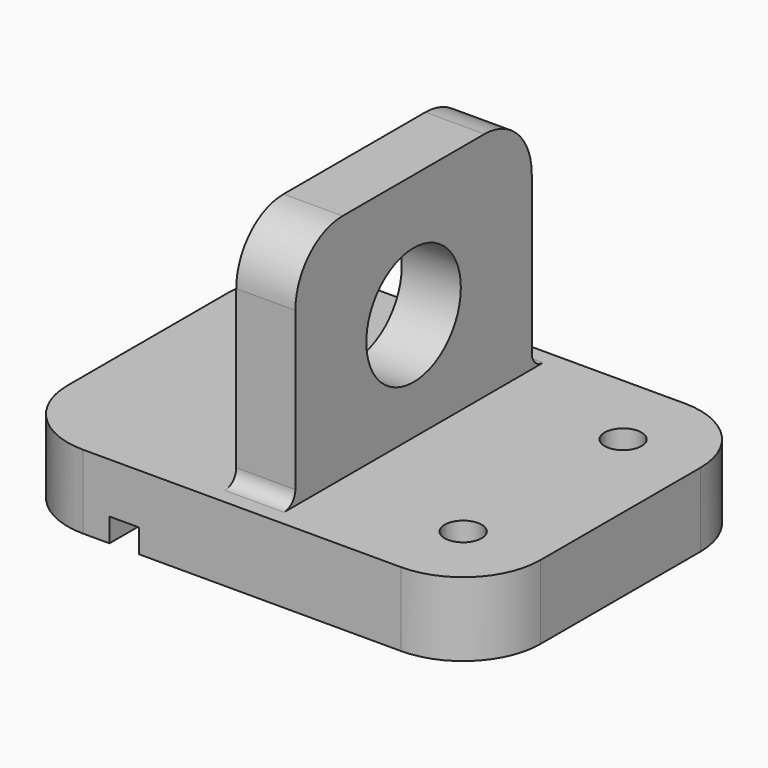
from build123d import *

# Parameters (mm, degrees)
F0_W      = 40
F0_H      = 30
F0_R      = 1.56
F1_DEPTH  = 6.25
F2_R      = 6.55
F4_W      = 5
F4_H      = 25
F5_DEPTH  = 20
F6_R      = 5
F7_R      = 1.2
F9_W      = 2.5
F9_H      = 2
F10_DEPTH = 36
F11_R     = 5
F12_DEPTH = 15.5


with BuildPart() as f1:
    # F0 (on Top) → F1 (new body)
    with BuildSketch(Plane.XY):
        Rectangle(F0_W, F0_H)
        with Locations((13.459221, -8.45)):
            Circle(F0_R, mode=Mode.SUBTRACT)
        with Locations((13.466984, 8.45)):
            Circle(F0_R, mode=Mode.SUBTRACT)
    extrude(amount=F1_DEPTH)

    # F2
    f2_edges = [f1.edges().sort_by_distance(p)[0] for p in [
        (-20, -15, 3.125),
        (-20, 15, 3.125),
        (20, -15, 3.125),
        (20, 15, 3.125),
    ]]
    fillet(f2_edges, radius=F2_R)

    # F4 (on offset) → F5 (join)
    with BuildSketch(Plane.XY.offset(5.8)):
        Rectangle(F4_W, F4_H)
    extrude(amount=F5_DEPTH)

    # F6
    f6_edges = [f1.edges().sort_by_distance(p)[0] for p in [
        (0, 12.5, 25.8),
        (0, -12.5, 25.8),
    ]]
    fillet(f6_edges, radius=F6_R)

    # F7
    f7_edges = [f1.edges().sort_by_distance(p)[0] for p in [
        (0, -12.5, 6.25),
        (0, 12.5, 6.25),
    ]]
    fillet(f7_edges, radius=F7_R)

    # F9 (on offset) → F10 (cut)
    with BuildSketch(Plane.XZ.offset(15.1)):
        with Locations((-9.976846, 1)):
            Rectangle(F9_W, F9_H)
    extrude(amount=-F10_DEPTH, mode=Mode.SUBTRACT)

    # F11 (on Right) → F12 (cut, symmetric)
    with BuildSketch(Plane.YZ):
        with Locations((0, 15.371925)):
            Circle(F11_R)
    extrude(amount=F12_DEPTH, both=True, mode=Mode.SUBTRACT)


solid = f1.part
